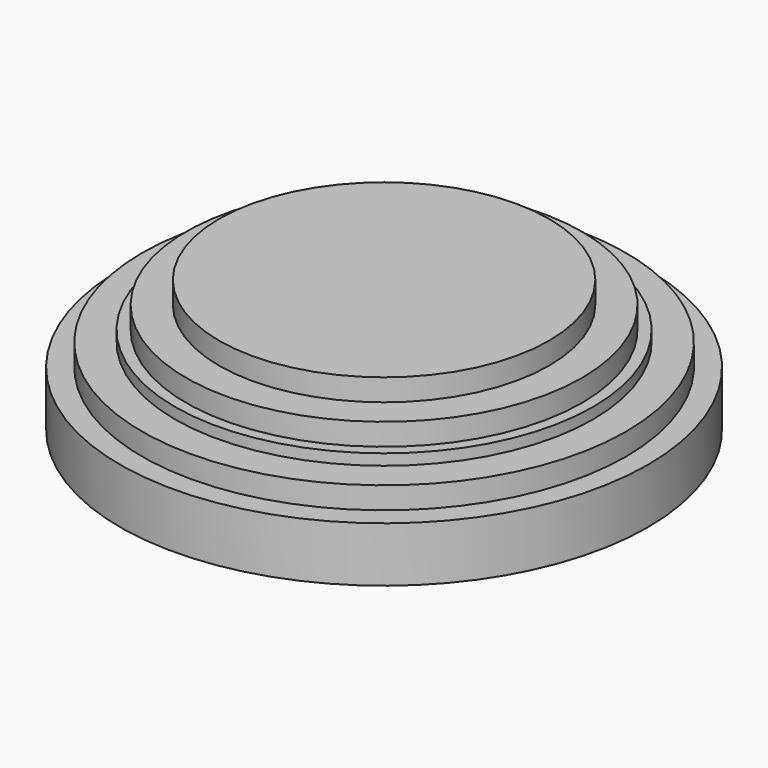
from build123d import *

# Parameters (mm, degrees)
SKETCH001_R      = 9
EXTRUDE001_DEPTH = 5
SKETCH002_R      = 9.5
EXTRUDE002_DEPTH = 4
SKETCH003_R      = 11
EXTRUDE003_DEPTH = 3.5
SKETCH004_R      = 12
EXTRUDE004_DEPTH = 2.5
SKETCH_R         = 7.5
EXTRUDE_DEPTH    = 6


with BuildPart() as extrude001:
    # Sketch001 → Extrude001 (new body)
    with BuildSketch(Plane.XY):
        Circle(SKETCH001_R)
    extrude(amount=EXTRUDE001_DEPTH)


with BuildPart() as extrude002:
    # Sketch002 → Extrude002 (new body)
    with BuildSketch(Plane.XY):
        Circle(SKETCH002_R)
    extrude(amount=EXTRUDE002_DEPTH)


with BuildPart() as extrude003:
    # Sketch003 → Extrude003 (new body)
    with BuildSketch(Plane.XY):
        Circle(SKETCH003_R)
    extrude(amount=EXTRUDE003_DEPTH)


with BuildPart() as extrude004:
    # Sketch004 → Extrude004 (new body)
    with BuildSketch(Plane.XY):
        Circle(SKETCH004_R)
    extrude(amount=EXTRUDE004_DEPTH)


with BuildPart() as fusion:
    # Sketch → Extrude (new body)
    with BuildSketch(Plane.XY):
        Circle(SKETCH_R)
    extrude(amount=EXTRUDE_DEPTH)

    # Fusion: union Extrude001, Extrude002, Extrude003, Extrude004
    add(extrude001.part)
    add(extrude002.part)
    add(extrude003.part)
    add(extrude004.part)


solid = fusion.part
